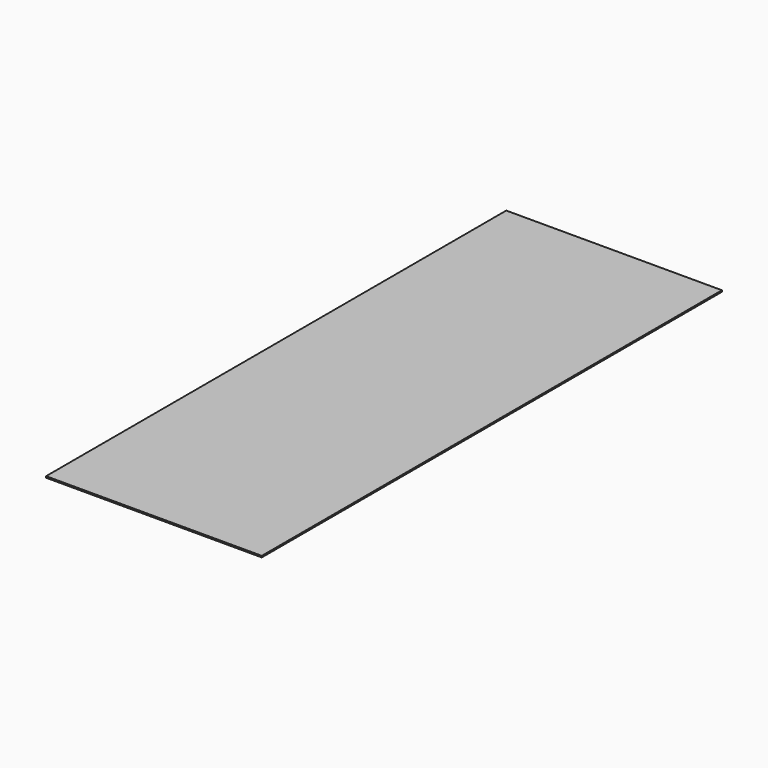
from build123d import *

# Parameters (mm, degrees)
F0_W     = 150
F0_H     = 400
F1_DEPTH = 1


with BuildPart() as f1:
    # F0 (on Top) → F1 (new body)
    with BuildSketch(Plane.XY):
        with Locations((75, 200)):
            Rectangle(F0_W, F0_H)
    extrude(amount=F1_DEPTH)


with BuildPart() as f1_1:
    # F2: moved
    add(f1.part.moved(Location((-18, -511, 500))))


with BuildPart() as f1_2:
    # F3: moved
    add(f1_1.part.moved(Location((-2.5, 3.5, 0))))


solid = f1_2.part
